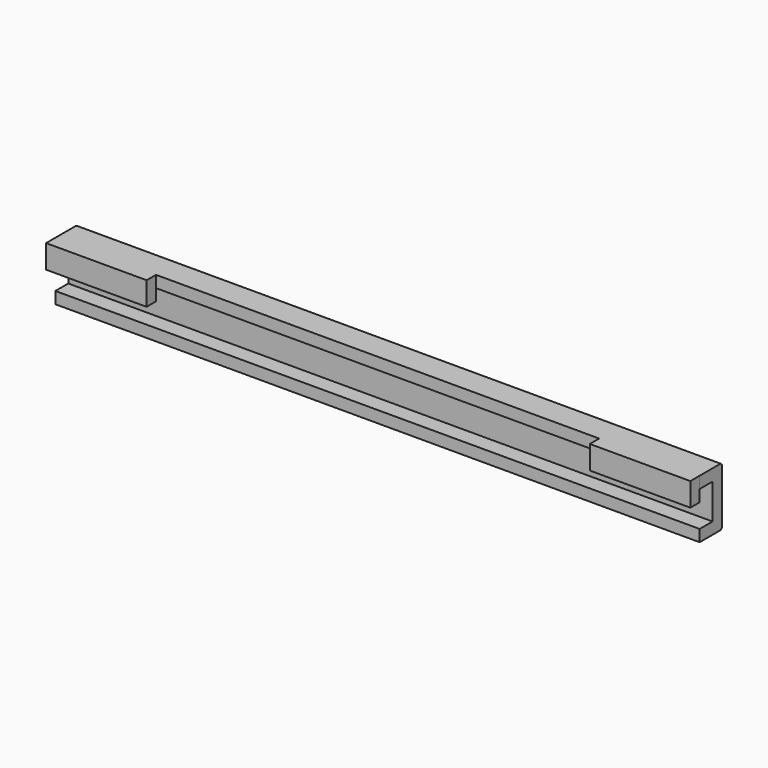
from build123d import *

# Parameters (mm, degrees)
F0_W     = 275
F0_H     = 5
F1_DEPTH = 7.5
F2_W     = 275
F2_H     = 11.837108
F3_DEPTH = 5
F4_W     = 42.909291
F4_H     = 10
F5_DEPTH = 5
F6_W     = 275
F6_H     = 11.88611
F7_DEPTH = 5
F8_R     = 1


with BuildPart() as f1:
    # F0 (on Top) → F1 (new body, symmetric)
    with BuildSketch(Plane.XY):
        Rectangle(F0_W, F0_H)
    extrude(amount=F1_DEPTH, both=True)

    # F2 (on face) → F3 (join)
    with BuildSketch(Plane.XY.offset(7.5)):
        with Locations((0, -3.418554)):
            Rectangle(F2_W, F2_H)
    extrude(amount=F3_DEPTH)

    # F4 (on face) → F5 (join)
    with BuildSketch(Plane.XZ.offset(9.337108)):
        with Locations((-116.045355, 7.5)):
            Rectangle(F4_W, F4_H)
        with Locations((116.045355, 7.5)):
            Rectangle(F4_W, F4_H)
    extrude(amount=F5_DEPTH)

    # F6 (on face) → F7 (join)
    with BuildSketch(Plane(origin=(0, 0, -7.5), x_dir=(1, 0, 0), z_dir=(0, 0, -1))):
        with Locations((0, 3.443055)):
            Rectangle(F6_W, F6_H)
    extrude(amount=F7_DEPTH)

    # F8
    f8_edges = [f1.edges().sort_by_distance(p)[0] for p in [
        (0, 2.5, 12.5),
        (0, 2.5, -12.5),
    ]]
    fillet(f8_edges, radius=F8_R)


solid = f1.part
